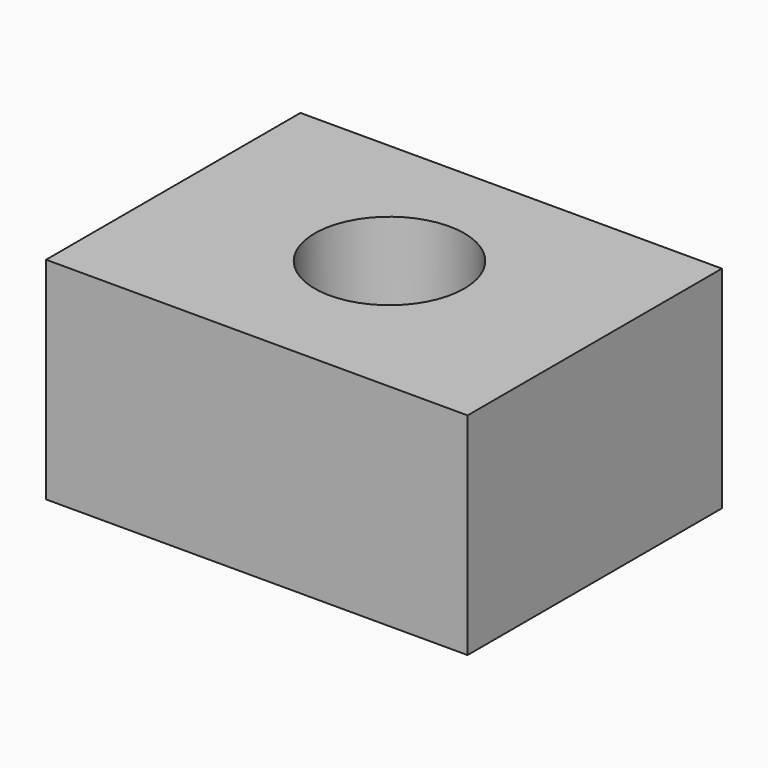
from build123d import *

# Parameters (mm, degrees)
F0_W     = 70.515729
F0_H     = 53.186368
F0_R     = 12.519939
F1_DEPTH = 35.306


with BuildPart() as f1:
    # F0 (on Top) → F1 (new body)
    with BuildSketch(Plane.XY):
        with Locations((-35.257864, 26.593184)):
            Rectangle(F0_W, F0_H)
        with Locations((-35.257865, 27.745403)):
            Circle(F0_R, mode=Mode.SUBTRACT)
        with Locations((-35.257864, 26.593184)):
            Rectangle(F0_W, F0_H)
        with Locations((-35.257865, 27.745403)):
            Circle(F0_R, mode=Mode.SUBTRACT)
    extrude(amount=F1_DEPTH)


solid = f1.part
